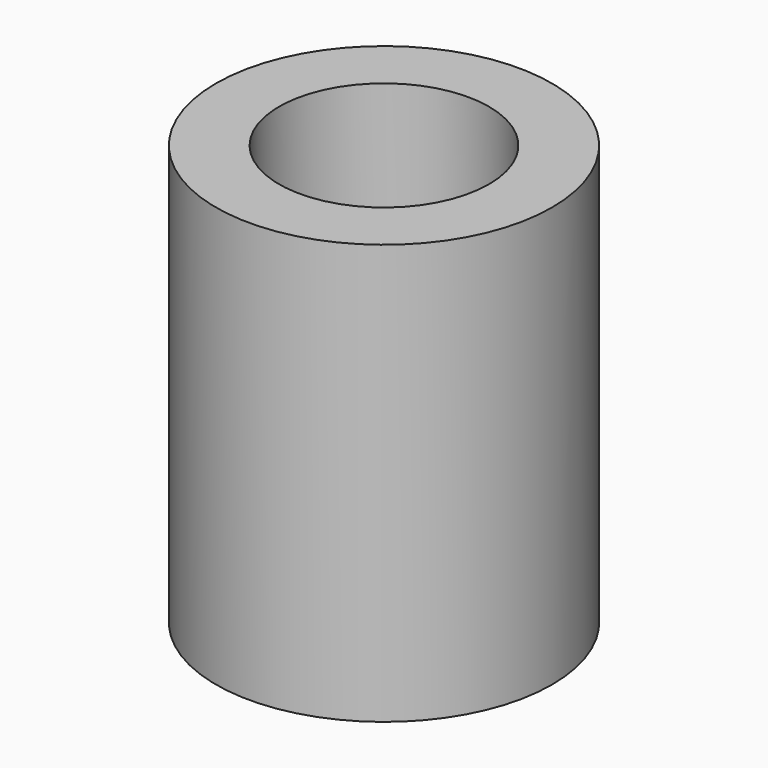
from build123d import *

# Parameters (mm, degrees)
F0_R     = 10.16
F1_DEPTH = 25.4
F2_R     = 2.794
F3_DEPTH = 76.2
F4_R     = 6.35
F5_DEPTH = 12.7


with BuildPart() as f1:
    # F0 (on Top) → F1 (new body)
    with BuildSketch(Plane.XY):
        Circle(F0_R)
    extrude(amount=F1_DEPTH)

    # F2 (on face) → F3 (cut)
    with BuildSketch(Plane.XY):
        Circle(F2_R)
    extrude(amount=F3_DEPTH, mode=Mode.SUBTRACT)

    # F4 (on face) → F5 (cut)
    with BuildSketch(Plane.XY.offset(25.4)):
        Circle(F4_R)
    extrude(amount=-F5_DEPTH, mode=Mode.SUBTRACT)


solid = f1.part
